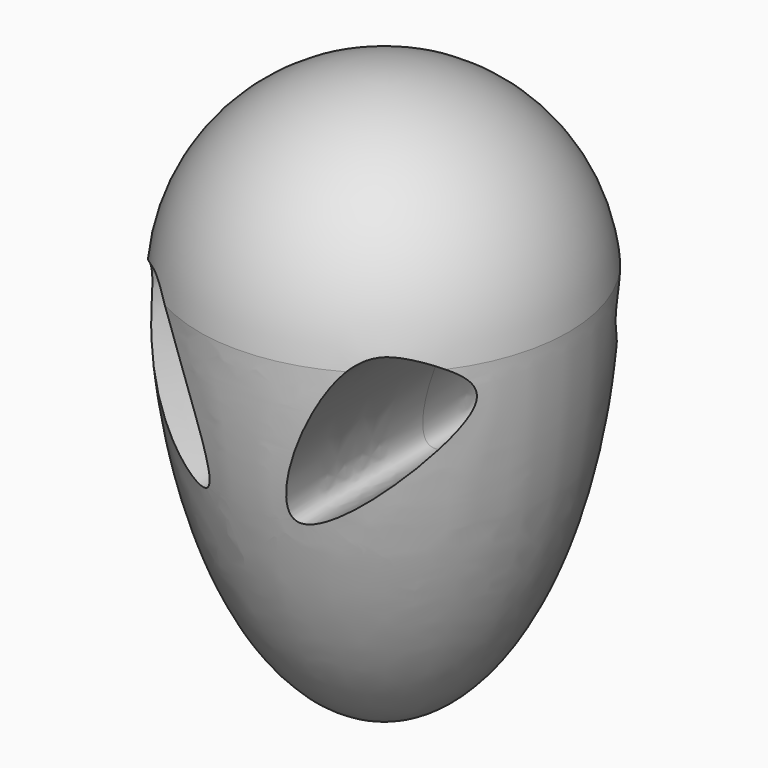
from build123d import *

# Parameters (mm, degrees)
F3_DEPTH = 20


with BuildPart() as f1:
    # F0 (on Front) → F1 (revolve)
    with BuildSketch(Plane.XZ):
        with BuildLine():
            ThreePointArc((0, 13.6971411755), (-10.156422554, 9.7576694865), (-15, 0))
            Line((-15, 0), (0, 0))
            Line((0, 0), (0, 13.6971411755))
        make_face()
        with BuildLine():
            Line((0, 0), (-15, 0))
            add(Edge.make_bspline(
                [(-15, 0), (-15, -31.8170283027), (0, -31.8170283027)],
                knots=[4.7123889804, 4.7123889804, 4.7123889804, 6.2831853072, 6.2831853072, 6.2831853072], degree=2, weights=[1, 0.7071067812, 1]))
            Line((0, -31.8170283027), (0, 0))
        make_face()
    revolve(axis=Axis((0, 0, -9.0599435636), (0, 0, -1)))

    # F2 (on Front) → F3 (cut, symmetric)
    with BuildSketch(Plane.XZ):
        with BuildLine():
            add(Edge.make_bspline(
                [(-10.6379520148, 0.8204176556), (-12.0076986222, 0.2994839518), (-16.2863935346, -2.8779283284), (1.0458636047, -18.6888347454), (-6.4512532793, 1.0851106393), (-9.3923332415, 1.2941438161), (-10.6379520148, 0.8204176556)],
                knots=[0, 0, 0, 0, 0.1920332795, 0.5150005556, 0.8253689721, 1, 1, 1, 1], degree=3))
        make_face()
        with BuildLine():
            add(Edge.make_bspline(
                [(10.6379520148, 0.8204176556), (12.0076986222, 0.2994839518), (16.2863935346, -2.8779283284), (-1.0458636047, -18.6888347454), (6.4512532793, 1.0851106393), (9.3923332415, 1.2941438161), (10.6379520148, 0.8204176556)],
                knots=[0, 0, 0, 0, 0.1920332795, 0.5150005556, 0.8253689721, 1, 1, 1, 1], degree=3))
        make_face()
    extrude(amount=F3_DEPTH, both=True, mode=Mode.SUBTRACT)


solid = f1.part
